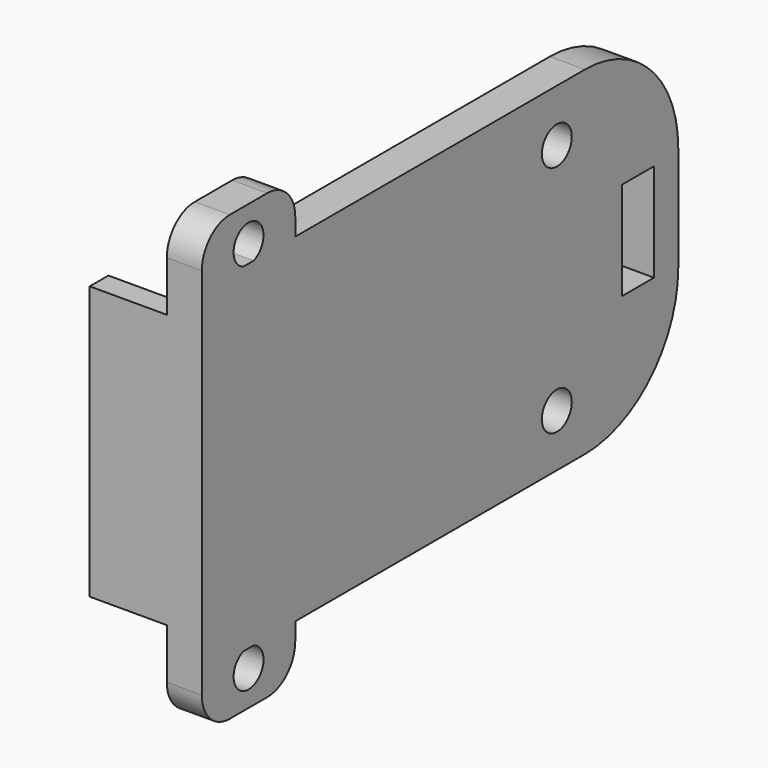
from build123d import *

# Parameters (mm, degrees)
CYLINDER004_R     = 1.6
CYLINDER004_DEPTH = 7
BOX008_W          = 11
BOX008_H          = 3.4
BOX008_DEPTH      = 8.4
CYLINDER003_R     = 1.6
CYLINDER003_DEPTH = 7
BOX007_W          = 3
BOX007_H          = 10
BOX007_DEPTH      = 6
FILLET003_R       = 3
BOX009_W          = 9
BOX009_H          = 2
BOX009_DEPTH      = 23.4
BOX006_W          = 3
BOX006_H          = 51
BOX006_DEPTH      = 29
FILLET002_R       = 10


with BuildPart() as screw_hole_cylinder003:
    # Cylinder004 → Cylinder004 (new body)
    with BuildSketch(Plane(origin=(-6, 15, 10), x_dir=(0, 0, -1), z_dir=(1, 0, 0))):
        Circle(CYLINDER004_R)
    extrude(amount=CYLINDER004_DEPTH)


with BuildPart() as wire_extract_cube001:
    # Box008 → Box008 (new body)
    with BuildSketch(Plane(origin=(-4, 22, -4.2), x_dir=(1, 0, 0), z_dir=(0, 0, 1))):
        with Locations((5.5, 1.7)):
            Rectangle(BOX008_W, BOX008_H)
    extrude(amount=BOX008_DEPTH)


with BuildPart() as cover_extract_fusion:
    # Part__Mirroring004: instance of screw hole cylinder003
    add(screw_hole_cylinder003.part.mirror(Plane(origin=(0, 0, 0), x_dir=(0, 1, 0), z_dir=(0, 0, 1))))

    # Fusion002: union screw hole cylinder003, wire extract cube001
    add(screw_hole_cylinder003.part)
    add(wire_extract_cube001.part)


with BuildPart() as screw_hole_cylinder002:
    # Cylinder003 → Cylinder003 (new body)
    with BuildSketch(Plane(origin=(-7, -18, 16), x_dir=(0, 0, -1), z_dir=(1, 0, 0))):
        Circle(CYLINDER003_R)
    extrude(amount=CYLINDER003_DEPTH)


with BuildPart() as cut002:
    # Box007 → Box007 (new body)
    with BuildSketch(Plane(origin=(-4, -23, 13), x_dir=(1, 0, 0), z_dir=(0, 0, 1))):
        with Locations((1.5, 5)):
            Rectangle(BOX007_W, BOX007_H)
    extrude(amount=BOX007_DEPTH)

    # Fillet003
    fillet003_edges = [cut002.edges().sort_by_distance(p)[0] for p in [
        (-2.5, -23, 19),
        (-2.5, -13, 19),
    ]]
    fillet(fillet003_edges, radius=FILLET003_R)

    # Cut002: cut screw hole cylinder002
    add(screw_hole_cylinder002.part, mode=Mode.SUBTRACT)


with BuildPart() as part_mirroring003:
    # Part__Mirroring003: instance of Cut002
    add(cut002.part.mirror(Plane(origin=(0, 0, 0), x_dir=(0, 1, 0), z_dir=(0, 0, 1))))


with BuildPart() as external_cube_border:
    # Box009 → Box009 (new body)
    with BuildSketch(Plane(origin=(-10.6, -23, -11.7), x_dir=(1, 0, 0), z_dir=(0, 0, 1))):
        with Locations((4.5, 1)):
            Rectangle(BOX009_W, BOX009_H)
    extrude(amount=BOX009_DEPTH)


with BuildPart() as cover_cut:
    # Box006 → Box006 (new body)
    with BuildSketch(Plane(origin=(-4, -23, -14.5), x_dir=(1, 0, 0), z_dir=(0, 0, 1))):
        with Locations((1.5, 25.5)):
            Rectangle(BOX006_W, BOX006_H)
    extrude(amount=BOX006_DEPTH)

    # Fillet002
    fillet002_edges = [cover_cut.edges().sort_by_distance(p)[0] for p in [
        (-2.5, 28, -14.5),
        (-2.5, 28, 14.5),
    ]]
    fillet(fillet002_edges, radius=FILLET002_R)

    # Fusion003: union Part__Mirroring003, Cut002, external cube border
    add(part_mirroring003.part)
    add(cut002.part)
    add(external_cube_border.part)

    # Cut003: cut cover extract fusion
    add(cover_extract_fusion.part, mode=Mode.SUBTRACT)


solid = cover_cut.part
